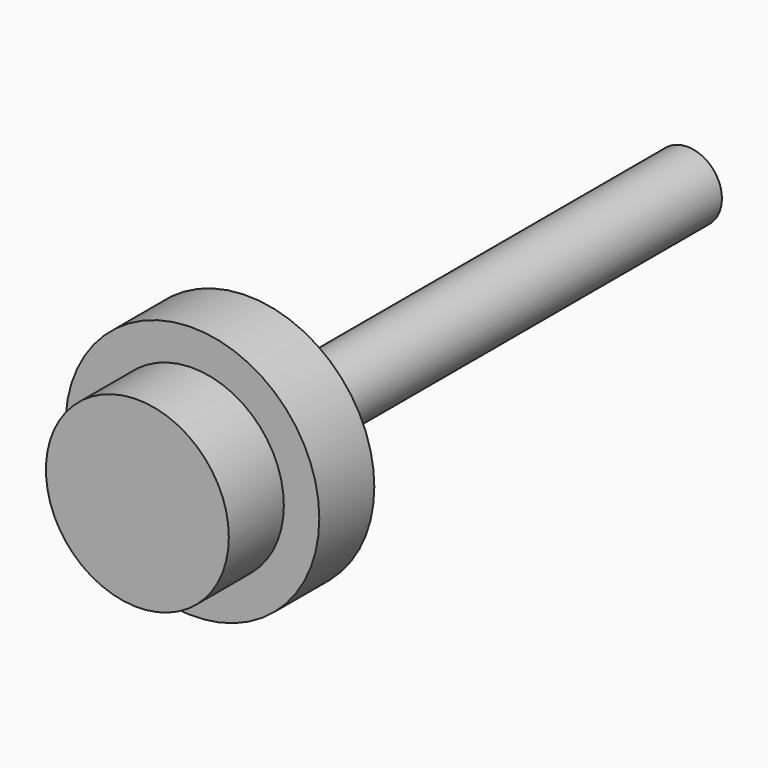
from build123d import *

# Parameters (mm, degrees)
F0_R     = 8.4455
F1_DEPTH = 6.35
F2_R     = 11.718365
F3_DEPTH = 6.35
F4_R     = 3.175
F5_DEPTH = 57.15


with BuildPart() as f1:
    # F0 (on Front) → F1 (new body)
    with BuildSketch(Plane.XZ):
        Circle(F0_R)
    extrude(amount=F1_DEPTH)

    # F2 (on Front) → F3 (join)
    with BuildSketch(Plane.XZ):
        Circle(F2_R)
    extrude(amount=-F3_DEPTH)

    # F4 (on Front) → F5 (join)
    with BuildSketch(Plane.XZ):
        Circle(F4_R)
    extrude(amount=-F5_DEPTH)


solid = f1.part
